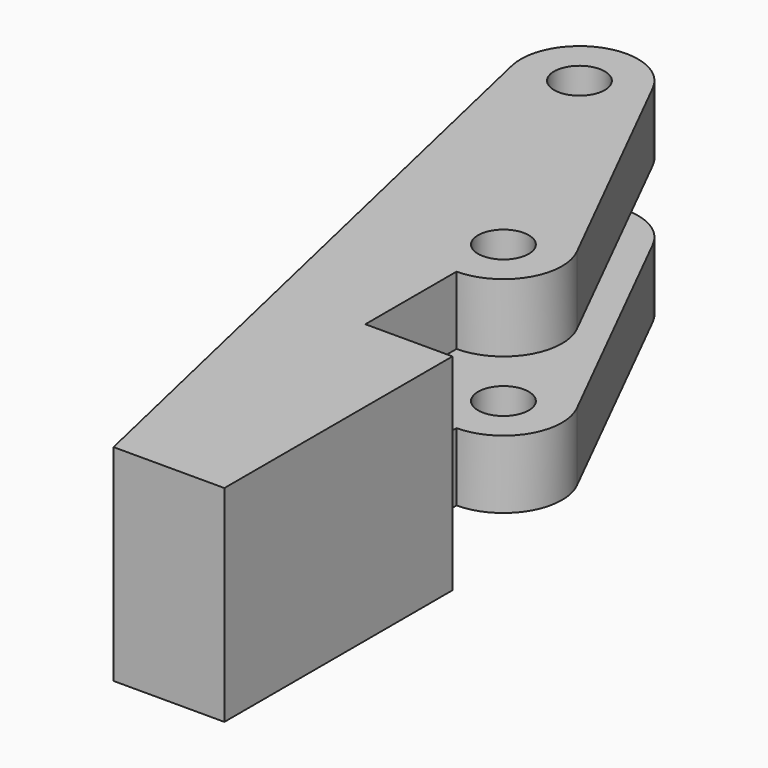
from build123d import *

# Parameters (mm, degrees)
CYLINDER005_R     = 1.6
CYLINDER005_DEPTH = 30
PAD001_DEPTH      = 13
SKETCH001_W       = 28
SKETCH001_H       = 4.4
POCKET002_DEPTH   = 7.4


with BuildPart() as finger_drill_master:
    # Cylinder005 → Cylinder005 (new body)
    with BuildSketch(Plane.XY.offset(-8)):
        Circle(CYLINDER005_R)
    extrude(amount=CYLINDER005_DEPTH)


with BuildPart() as clone001:
    # Clone001 base: copy of finger-drill-master
    add(finger_drill_master.part)


with BuildPart() as clone001_1:
    # Clone001 placement: moved
    add(clone001.part.moved(Location((-5.5, 28.9, 0))))


with BuildPart() as finger_drills:
    # Clone002 base: copy of finger-drill-master
    add(finger_drill_master.part)


with BuildPart() as finger_drills_1:
    # Clone002 placement: moved
    add(finger_drills.part.moved(Location((-13.5, 44.9, 0))))

    # Fusion011: union Clone001
    add(clone001_1.part)


with BuildPart() as left_finger:
    # Sketch007 → Pad001 (new body)
    with BuildSketch(Plane.XY):
        with BuildLine():
            Line((0, 0), (0, 18))
            Line((0, 18), (-5.5, 18))
            Line((-5.5, 18), (-5.5, 25.2))
            ThreePointArc((-5.5, 25.2), (-2.3525883805, 26.9548007564), (-2.1906255667, 30.55470265))
            Line((-10.1906192745, 46.5546900658), (-2.1906255667, 30.55470265))
            ThreePointArc((-10.1906192745, 46.5546900658), (-14.7496924515, 48.3825664066), (-17.1063967324, 44.0730159565))
            Line((-17.1063967324, 44.0730159565), (-7, 0))
            Line((-7, 0), (0, 0))
        make_face()
    extrude(amount=PAD001_DEPTH)

    # Sketch001 → Pocket002 (cut)
    with BuildSketch(Plane(origin=(10.4693806066, 5.2346903033, 0), x_dir=(-0.4472135955, 0.894427191, 0), z_dir=(0.894427191, 0.4472135955, 0))):
        with Locations((37.2528992744, 6.5)):
            Rectangle(SKETCH001_W, SKETCH001_H)
    extrude(amount=-POCKET002_DEPTH, mode=Mode.SUBTRACT)

    # Cut012: cut finger-drills
    add(finger_drills_1.part, mode=Mode.SUBTRACT)


with BuildPart() as left_finger_1:
    # Cut012 placement: moved
    add(left_finger.part.moved(Location((0, -57, 0))))


with BuildPart() as left_finger_2:
    # Clone003 placement: moved
    add(left_finger_1.part.moved(Location((192.6034801236, 242.5662976869, 0))))


solid = left_finger_2.part
